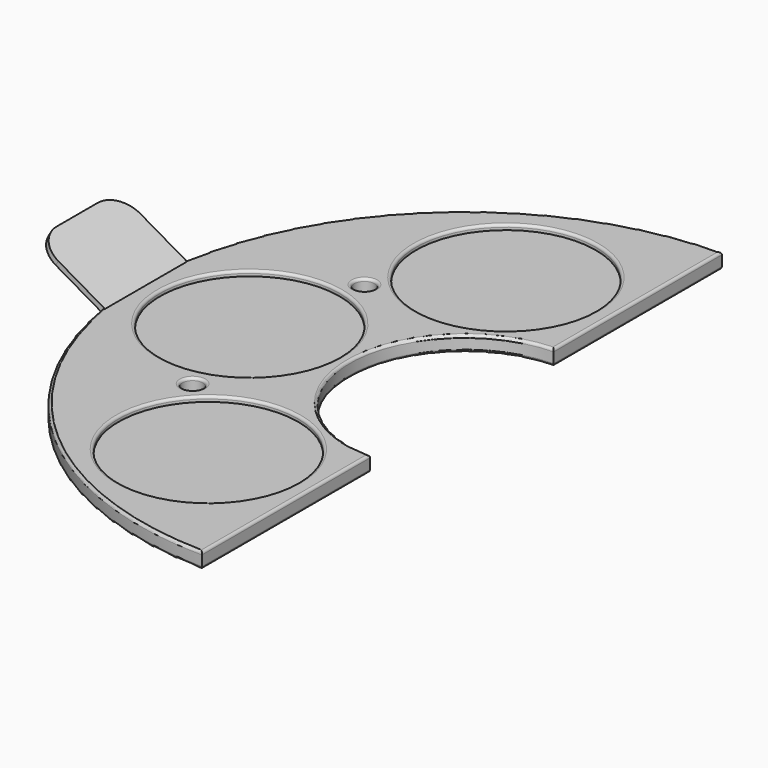
from build123d import *

# Parameters (mm, degrees)
SKETCH034_R       = 4
PAD011_DEPTH      = 6
SKETCH035_R       = 35
POCKET009_DEPTH   = 2
FILLET007_R       = 1
PAD012_DEPTH      = 20
PAD012_DEPTH_BACK = 20
FILLET008_R       = 10


with BuildPart() as part:
    # Sketch034 → Pad011 (new body)
    with BuildSketch(Plane.XY):
        with BuildLine():
            ThreePointArc((-1, 126.746055), (-126.75, 0), (-1, -126.746055))
            Line((-1, -44.738825), (-1, -126.746055))
            ThreePointArc((-1, 44.738825), (-44.75, 0), (-1, -44.738825))
            Line((-1, 44.738825), (-1, 126.746055))
        make_face()
        with Locations((-72.529628, 41.875)):
            Circle(SKETCH034_R, mode=Mode.SUBTRACT)
        with Locations((-72.529628, -41.875)):
            Circle(SKETCH034_R, mode=Mode.SUBTRACT)
    extrude(amount=-PAD011_DEPTH)

    # Sketch035 → Pocket009 (cut)
    with BuildSketch(Plane.XY):
        with Locations((-41.875, 72.529628)):
            Circle(SKETCH035_R)
        with Locations((-83.75, 0)):
            Circle(SKETCH035_R)
        with Locations((-41.875, -72.529628)):
            Circle(SKETCH035_R)
    extrude(amount=-POCKET009_DEPTH, mode=Mode.SUBTRACT)

    # Fillet007
    fillet007_edges = [part.edges().sort_by_distance(p)[0] for p in [
        (-1, 85.74244, 0),
        (-44.75, 0, 0),
        (-126.75, 0, 0),
        (-1, -85.74244, 0),
        (-76.529628, -41.875, 0),
        (-118.75, 0, 0),
        (-76.875, -72.529628, 0),
        (-76.529628, 41.875, 0),
        (-76.875, 72.529628, 0),
        (-1, 85.74244, -6),
        (-126.75, 0, -6),
        (-1, -85.74244, -6),
        (-44.75, 0, -6),
        (-76.529628, 41.875, -6),
        (-76.529628, -41.875, -6),
    ]]
    fillet(fillet007_edges, radius=FILLET007_R)

    # Sketch036 → Pad012 (join, two sides)
    with BuildSketch(Plane.XZ) as pad012_sk:
        Polygon((-120.75, -4.309401), (-152.060889, 13.767949), (-151.060889, 15.5), (-120.75, -2), align=None)
    extrude(amount=PAD012_DEPTH)
    extrude(pad012_sk.sketch, amount=-PAD012_DEPTH_BACK)

    # Fillet008
    fillet008_edges = [part.edges().sort_by_distance(p)[0] for p in [
        (-151.560889, -20, 14.633975),
        (-151.560889, 20, 14.633975),
    ]]
    fillet(fillet008_edges, radius=FILLET008_R)


solid = part.part
